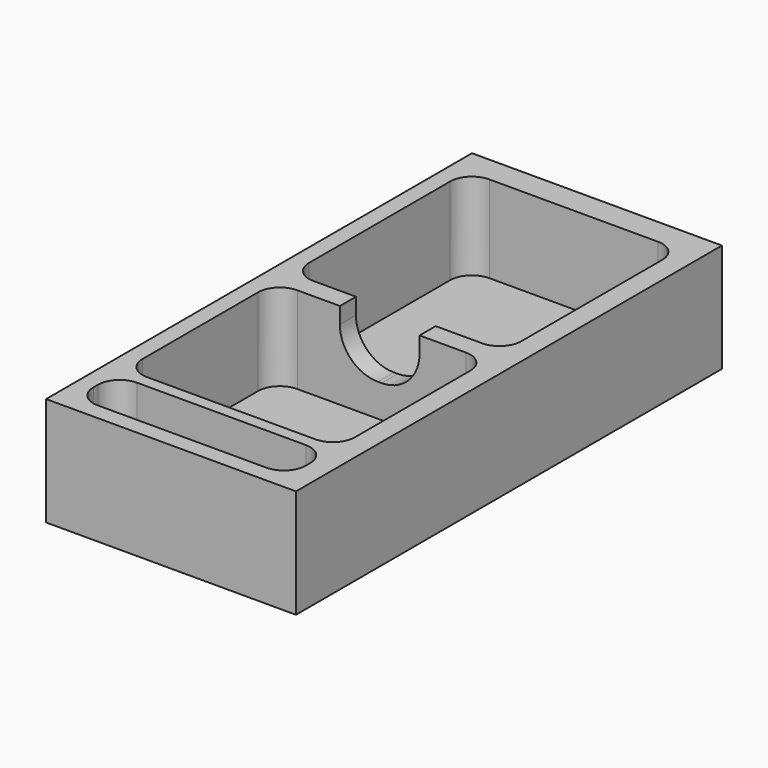
from build123d import *

# Parameters (mm, degrees)
F0_W     = 58.42
F0_H     = 124.46
F1_DEPTH = 25.4
F2_W     = 49.598961
F2_H     = 51.409137
F2_H_2   = 43.945098
F2_H_3   = 11.481412
F3_DEPTH = 20.32
F4_R     = 5.08
F5_W     = 18.630186
F5_H     = 46.435684
F6_DEPTH = 12.7
F7_R     = 8.89


with BuildPart() as f1:
    # F0 (on Top) → F1 (new body)
    with BuildSketch(Plane.XY):
        with Locations((-18.543279, 2.624761)):
            Rectangle(F0_W, F0_H)
    extrude(amount=F1_DEPTH)

    # F2 (on face) → F3 (cut)
    with BuildSketch(Plane.XY.offset(25.4)):
        with Locations((-19.09741, 33.035801)):
            Rectangle(F2_W, F2_H)
        with Locations((-19.09741, -19.347788)):
            Rectangle(F2_W, F2_H_2)
        with Locations((-19.09741, -49.922362)):
            Rectangle(F2_W, F2_H_3)
    extrude(amount=-F3_DEPTH, mode=Mode.SUBTRACT)

    # F4
    f4_edges = [f1.edges().sort_by_distance(p)[0] for p in [
        (5.70207, 58.74037, 15.24),
        (-43.896891, 58.74037, 15.24),
        (-43.896891, 7.331233, 15.24),
        (5.70207, 7.331233, 15.24),
        (-43.896891, 2.624761, 15.24),
        (5.70207, 2.624761, 15.24),
        (5.70207, -41.320337, 15.24),
        (-43.896891, -41.320337, 15.24),
        (5.70207, -44.181656, 15.24),
        (5.70207, -55.663068, 15.24),
        (-43.896891, -44.181656, 15.24),
        (-43.896891, -55.663068, 15.24),
    ]]
    fillet(f4_edges, radius=F4_R)

    # F5 (on face) → F6 (cut)
    with BuildSketch(Plane.XY.offset(25.4)):
        with Locations((-19.545062, -9.993736)):
            Rectangle(F5_W, F5_H)
    extrude(amount=-F6_DEPTH, mode=Mode.SUBTRACT)

    # F7
    f7_edges = [f1.edges().sort_by_distance(p)[0] for p in [
        (-10.229969, 4.977997, 12.7),
        (-28.860155, 4.977997, 12.7),
    ]]
    fillet(f7_edges, radius=F7_R)


solid = f1.part
